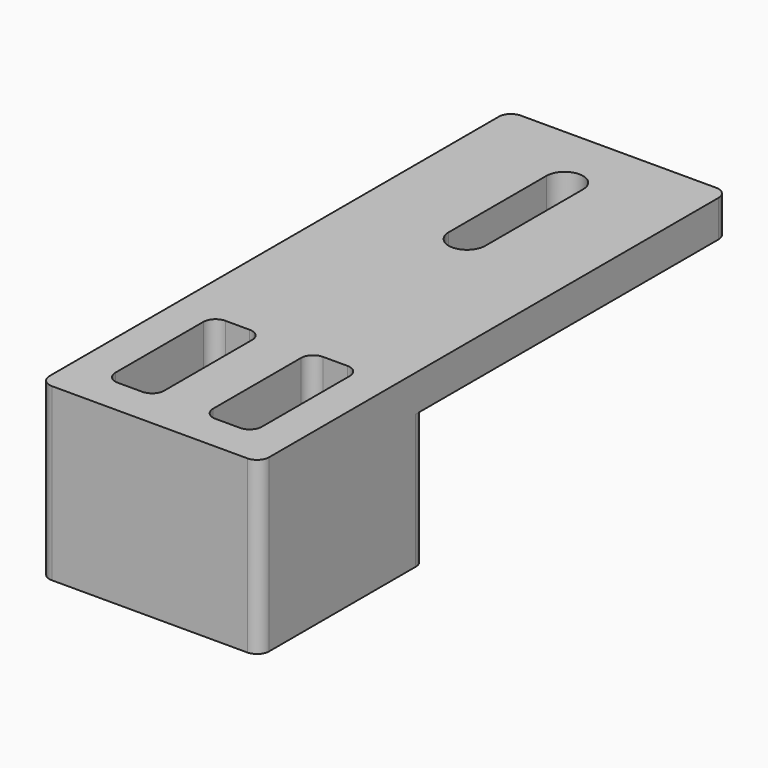
from build123d import *

# Parameters (mm, degrees)
BOX026_W          = 4
BOX026_H          = 11
BOX026_DEPTH      = 16
BOX027_W          = 4
BOX027_H          = 11
BOX027_DEPTH      = 16
FILLET004_R       = 1
BOX024_W          = 18
BOX024_H          = 17
BOX024_DEPTH      = 14
FILLET005_R       = 1
CYLINDER032_R     = 1.5
CYLINDER032_DEPTH = 10
CYLINDER033_R     = 1.5
CYLINDER033_DEPTH = 10
BOX025_W          = 3
BOX025_H          = 10
BOX025_DEPTH      = 5
BOX023_W          = 18
BOX023_H          = 32
BOX023_DEPTH      = 3
FILLET006_R       = 1


with BuildPart() as cube026:
    # Box026 → Box026 (new body)
    with BuildSketch(Plane(origin=(-6, -17, 6), x_dir=(1, 0, 0), z_dir=(0, 0, 1))):
        with Locations((2, 5.5)):
            Rectangle(BOX026_W, BOX026_H)
    extrude(amount=BOX026_DEPTH)


with BuildPart() as fillet004:
    # Box027 → Box027 (new body)
    with BuildSketch(Plane(origin=(2, -17, 6), x_dir=(1, 0, 0), z_dir=(0, 0, 1))):
        with Locations((2, 5.5)):
            Rectangle(BOX027_W, BOX027_H)
    extrude(amount=BOX027_DEPTH)

    # Fusion001001001011002004002008: union Cube026
    add(cube026.part)

    # Fillet004
    fillet004_edges = [fillet004.edges().sort_by_distance(p)[0] for p in [
        (2, -17, 14),
        (2, -6, 14),
        (6, -17, 14),
        (6, -6, 14),
        (-6, -17, 14),
        (-6, -6, 14),
        (-2, -17, 14),
        (-2, -6, 14),
    ]]
    fillet(fillet004_edges, radius=FILLET004_R)


with BuildPart() as cut002008023012009006003002006_body:
    # Box024 → Box024 (new body)
    with BuildSketch(Plane(origin=(-9, -20, 6), x_dir=(1, 0, 0), z_dir=(0, 0, 1))):
        with Locations((9, 8.5)):
            Rectangle(BOX024_W, BOX024_H)
    extrude(amount=BOX024_DEPTH)

    # Fillet005
    fillet005_edges = [cut002008023012009006003002006_body.edges().sort_by_distance(p)[0] for p in [
        (-9, -20, 13),
        (-9, -3, 13),
        (9, -20, 13),
        (9, -3, 13),
    ]]
    fillet(fillet005_edges, radius=FILLET005_R)

    # Cut002008023012009006003002006002006002004004005004: cut Fillet004
    add(fillet004.part, mode=Mode.SUBTRACT)


with BuildPart() as cylinder032:
    # Cylinder032 → Cylinder032 (new body)
    with BuildSketch(Plane(origin=(0, 12.5, 12.5), x_dir=(1, 0, 0), z_dir=(0, 0, 1))):
        Circle(CYLINDER032_R)
    extrude(amount=CYLINDER032_DEPTH)


with BuildPart() as cylinder033:
    # Cylinder033 → Cylinder033 (new body)
    with BuildSketch(Plane(origin=(0, 22.5, 12.5), x_dir=(1, 0, 0), z_dir=(0, 0, 1))):
        Circle(CYLINDER033_R)
    extrude(amount=CYLINDER033_DEPTH)


with BuildPart() as fusion001001001011002004002005:
    # Box025 → Box025 (new body)
    with BuildSketch(Plane(origin=(-1.5, 12.5, 17), x_dir=(1, 0, 0), z_dir=(0, 0, 1))):
        with Locations((1.5, 5)):
            Rectangle(BOX025_W, BOX025_H)
    extrude(amount=BOX025_DEPTH)

    # Fusion001001001011002004002005: union Cylinder032, Cylinder033
    add(cylinder032.part)
    add(cylinder033.part)


with BuildPart() as fusion001001001011002004002009:
    # Box023 → Box023 (new body)
    with BuildSketch(Plane(origin=(-9, -4, 17), x_dir=(1, 0, 0), z_dir=(0, 0, 1))):
        with Locations((9, 16)):
            Rectangle(BOX023_W, BOX023_H)
    extrude(amount=BOX023_DEPTH)

    # Cut002008023012009006003002006002006002004004005005: cut Fusion001001001011002004002005
    add(fusion001001001011002004002005.part, mode=Mode.SUBTRACT)

    # Fillet006
    fillet006_edges = [fusion001001001011002004002009.edges().sort_by_distance(p)[0] for p in [
        (-9, 28, 18.5),
        (9, 28, 18.5),
    ]]
    fillet(fillet006_edges, radius=FILLET006_R)

    # Fusion001001001011002004002009: union Cut002008023012009006003002006 body
    add(cut002008023012009006003002006_body.part)


solid = fusion001001001011002004002009.part
